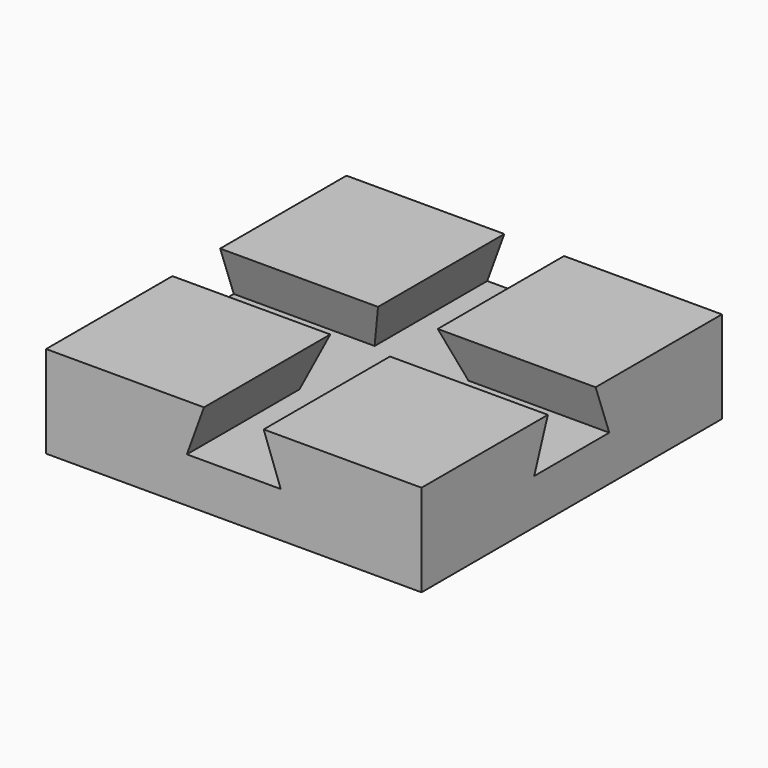
from build123d import *

# Parameters (mm, degrees)
F1_DEPTH = 80
F3_DEPTH = 80


with BuildPart() as f1:
    # F0 (on Front) → F1 (new body)
    with BuildSketch(Plane.XZ):
        Polygon((-3.64, 10), (0, 0), (-20, 0), (-16.36, 10), (-20, 10), (-50, 10), (-50, -9.62604), (-10, -9.62604), (30, -9.62604), (30, 10), (0, 10), align=None)
    extrude(amount=-F1_DEPTH)

    # F2 (on face) → F3 (cut)
    with BuildSketch(Plane.YZ.offset(30)):
        Polygon((33.64, 10), (30, 0), (50, 0), (46.36, 10), align=None)
    extrude(amount=-F3_DEPTH, mode=Mode.SUBTRACT)


solid = f1.part
